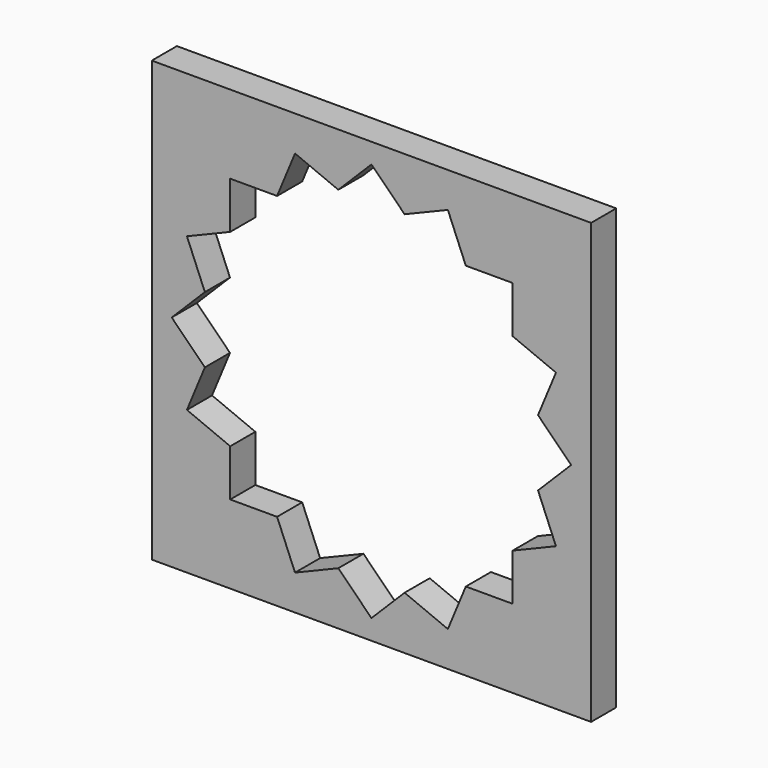
from build123d import *

# Parameters (mm, degrees)
F0_W     = 355.6
F0_H     = 355.6
F1_DEPTH = 25.4


with BuildPart() as f1:
    # F0 (on Front) → F1 (new body)
    with BuildSketch(Plane.XZ):
        Rectangle(F0_W, F0_H)
        Polygon((76.372818, 114.3), (114.3, 114.3), (114.3, 76.372818), (149.340147, 61.858714), (134.826043, 26.818567), (161.64461, 0), (134.826043, -26.818567), (149.340147, -61.858714), (114.3, -76.372818), (114.3, -114.3), (76.372818, -114.3), (61.858714, -149.340147), (26.818567, -134.826043), (0, -161.64461), (-26.818567, -134.826043), (-61.858714, -149.340147), (-76.372818, -114.3), (-114.3, -114.3), (-114.3, -76.372818), (-149.340147, -61.858714), (-134.826043, -26.818567), (-161.64461, 0), (-134.826043, 26.818567), (-149.340147, 61.858714), (-114.3, 76.372818), (-114.3, 114.3), (-76.372818, 114.3), (-61.858714, 149.340147), (-26.818567, 134.826043), (0, 161.64461), (26.818567, 134.826043), (61.858714, 149.340147), align=None, mode=Mode.SUBTRACT)
    extrude(amount=F1_DEPTH)


solid = f1.part
